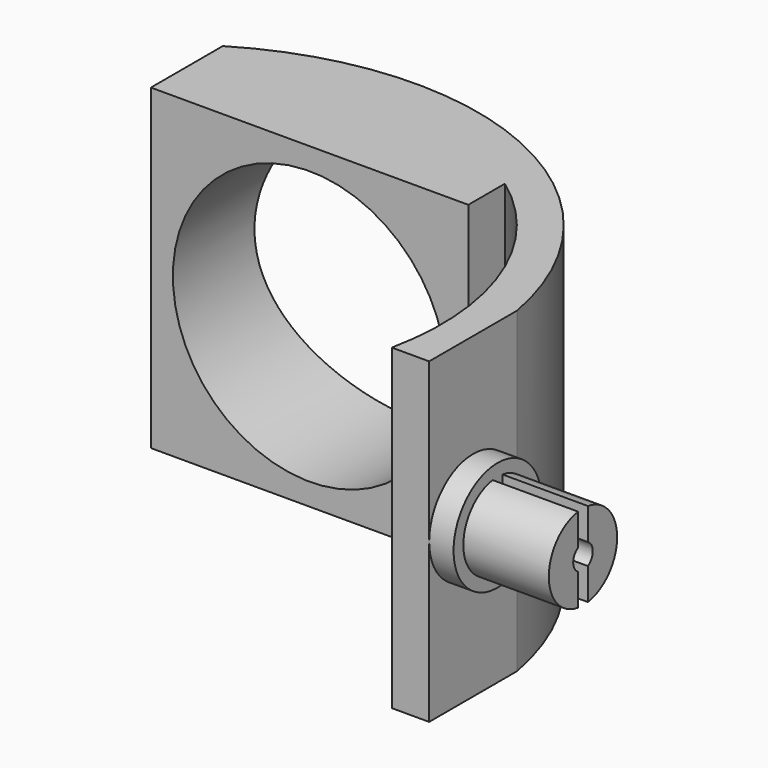
from build123d import *

# Parameters (mm, degrees)
F1_DEPTH = 26
F2_R     = 11.2
F3_DEPTH = 25
F5_DEPTH = 2
F7_DEPTH = 7


with BuildPart() as f1:
    # F0 (on Top) → F1 (new body)
    with BuildSketch(Plane.XY):
        with BuildLine():
            ThreePointArc((13, 17.748239), (20.54045, 7.879715), (21.534855, -4.5))
            Line((21.534855, -4.5), (24.591665, -4.5))
            Line((24.591665, -4.5), (24.591665, 4.5))
            ThreePointArc((24.591665, 4.5), (10.227772, 22.812117), (-13, 21.354157))
            Line((-13, 21.354157), (-13, 14))
            Line((-13, 14), (13, 14))
            Line((13, 14), (13, 17.748239))
        make_face()
    extrude(amount=F1_DEPTH)

    # F2 (on face) → F3 (cut)
    with BuildSketch(Plane.XZ.offset(-14)):
        with Locations((0, 13)):
            Circle(F2_R)
    extrude(amount=-F3_DEPTH, mode=Mode.SUBTRACT)

    # F4 (on face) → F5 (join)
    with BuildSketch(Plane.YZ.offset(24.591665)):
        with BuildLine():
            ThreePointArc((-4.5, 13), (0, 8.5), (4.5, 13))
            ThreePointArc((4.5, 13), (0, 17.5), (-4.5, 13))
        make_face()
    extrude(amount=F5_DEPTH)

    # F6 (on face) → F7 (join)
    with BuildSketch(Plane.YZ.offset(26.591665)):
        with BuildLine():
            ThreePointArc((0.5, 9.535898), (3.5, 13), (0.5, 16.464102))
            Line((0.5, 16.464102), (0.5, 13.866025))
            ThreePointArc((0.5, 13.866025), (1, 13), (0.5, 12.133975))
            Line((0.5, 12.133975), (0.5, 9.535898))
        make_face()
        with BuildLine():
            Line((-0.5, 13.866025), (-0.5, 16.464102))
            ThreePointArc((-0.5, 16.464102), (-3.5, 13), (-0.5, 9.535898))
            Line((-0.5, 9.535898), (-0.5, 12.133975))
            ThreePointArc((-0.5, 12.133975), (-1, 13), (-0.5, 13.866025))
        make_face()
    extrude(amount=F7_DEPTH)


solid = f1.part
